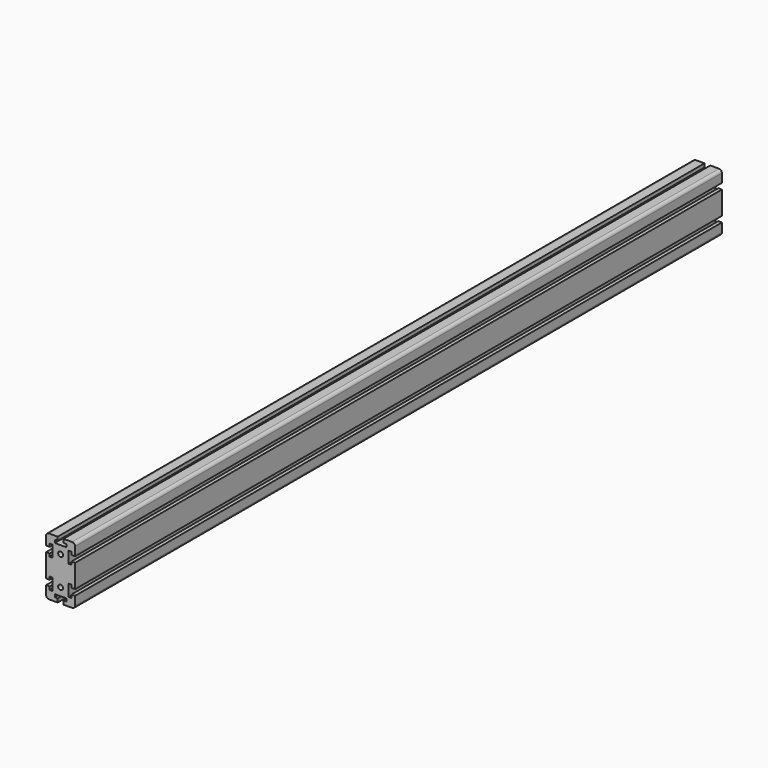
from build123d import *

# Parameters (mm, degrees)
F1_DEPTH = 1115
F2_R     = 3.4
F3_DEPTH = 1115


with BuildPart() as f1:
    # F0 (on Front) → F1 (new body)
    with BuildSketch(Plane.XZ):
        with BuildLine():
            Line((0, 16), (0, 4))
            ThreePointArc((0, 4), (1.171573, 1.171573), (4, 0))
            Line((4, 0), (16, 0))
            Line((16, 0), (16, 5))
            Line((16, 5), (12, 5))
            Line((12, 5), (12, 9))
            Line((12, 9), (28, 9))
            Line((28, 9), (28, 5))
            Line((28, 5), (24, 5))
            Line((24, 5), (24, 0))
            Line((24, 0), (36, 0))
            ThreePointArc((36, 0), (38.828427, 1.171573), (40, 4))
            Line((40, 4), (40, 16))
            Line((40, 16), (35, 16))
            Line((35, 16), (35, 11.643731))
            Line((35, 11.643731), (31, 11.643731))
            Line((31, 11.643731), (31, 28))
            Line((31, 28), (35, 28))
            Line((35, 28), (35, 24))
            Line((35, 24), (40, 24))
            Line((40, 24), (40, 56))
            Line((40, 56), (35, 56))
            Line((35, 56), (35, 52))
            Line((35, 52), (31, 52))
            Line((31, 52), (31, 68))
            Line((31, 68), (35, 68))
            Line((35, 68), (35, 64))
            Line((35, 64), (40, 64))
            Line((40, 64), (40, 76))
            ThreePointArc((40, 76), (38.828427, 78.828427), (36, 80))
            Line((36, 80), (24, 80))
            Line((24, 80), (24, 75))
            Line((24, 75), (28, 75))
            Line((28, 75), (28, 71))
            Line((28, 71), (12, 71))
            Line((12, 71), (12, 75))
            Line((12, 75), (16, 75))
            Line((16, 75), (16, 80))
            Line((16, 80), (4, 80))
            ThreePointArc((4, 80), (1.171573, 78.828427), (0, 76))
            Line((0, 76), (0, 64))
            Line((0, 64), (5, 64))
            Line((5, 64), (5, 68))
            Line((5, 68), (9, 68))
            Line((9, 68), (9, 52))
            Line((9, 52), (5, 52))
            Line((5, 52), (5, 56))
            Line((5, 56), (0, 56))
            Line((0, 56), (0, 24))
            Line((0, 24), (5, 24))
            Line((5, 24), (5, 28))
            Line((5, 28), (9, 28))
            Line((9, 28), (9, 11.643731))
            Line((9, 11.643731), (5, 11.643731))
            Line((5, 11.643731), (5, 16))
            Line((5, 16), (0, 16))
        make_face()
    extrude(amount=F1_DEPTH)

    # F2 (on face) → F3 (cut)
    with BuildSketch(Plane.XZ.offset(1115)):
        with Locations((20, 60)):
            Circle(F2_R)
        with Locations((20, 19.821866)):
            Circle(F2_R)
    extrude(amount=-F3_DEPTH, mode=Mode.SUBTRACT)


solid = f1.part
